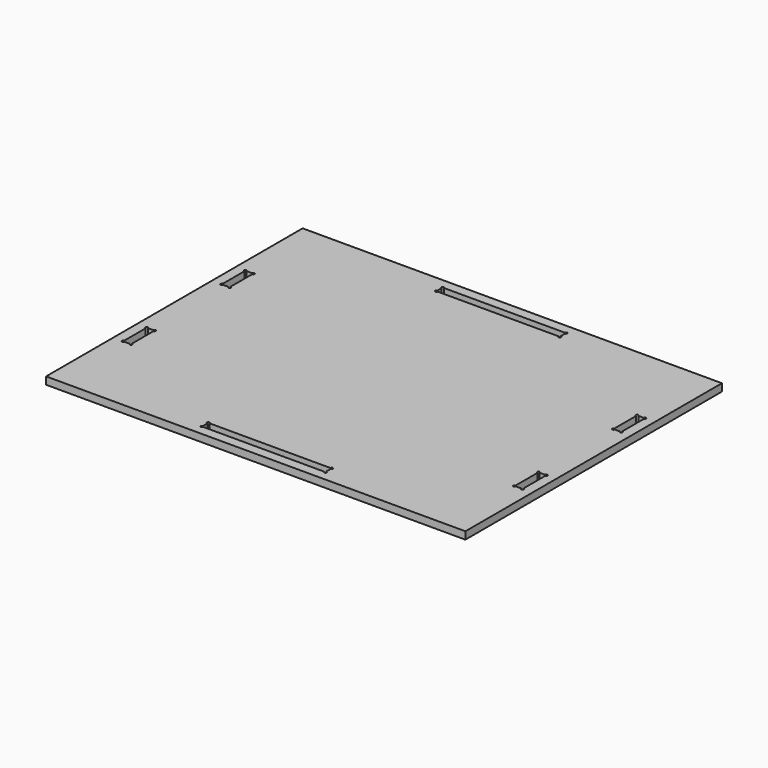
from build123d import *

# Parameters (mm, degrees)
F0_W     = 170
F0_H     = 130
F1_DEPTH = 3


with BuildPart() as f1:
    # F0 (on Top) → F1 (new body)
    with BuildSketch(Plane.XY):
        Rectangle(F0_W, F0_H)
        with BuildLine():
            ThreePointArc((-81, -19.5), (-81.353553, -18.646447), (-80.5, -19))
            Line((-80.5, -19), (-78.3, -19))
            ThreePointArc((-78.3, -19), (-77.8, -18.5), (-77.3, -19))
            ThreePointArc((-77.3, -19), (-77.446447, -19.353553), (-77.8, -19.5))
            Line((-77.8, -19.5), (-77.8, -30.5))
            ThreePointArc((-77.8, -30.5), (-77.446447, -30.646447), (-77.3, -31))
            ThreePointArc((-77.3, -31), (-77.8, -31.5), (-78.3, -31))
            Line((-78.3, -31), (-80.5, -31))
            ThreePointArc((-80.5, -31), (-81.353553, -31.353553), (-81, -30.5))
            Line((-81, -30.5), (-81, -19.5))
        make_face(mode=Mode.SUBTRACT)
        with BuildLine():
            ThreePointArc((-25, -58.3), (-25.353553, -57.446447), (-24.5, -57.8))
            Line((-24.5, -57.8), (24.5, -57.8))
            ThreePointArc((24.5, -57.8), (25, -57.3), (25.5, -57.8))
            ThreePointArc((25.5, -57.8), (25.353553, -58.153553), (25, -58.3))
            Line((25, -58.3), (25, -60.5))
            ThreePointArc((25, -60.5), (25.353553, -60.646447), (25.5, -61))
            ThreePointArc((25.5, -61), (25, -61.5), (24.5, -61))
            Line((24.5, -61), (-24.5, -61))
            ThreePointArc((-24.5, -61), (-25.353553, -61.353553), (-25, -60.5))
            Line((-25, -60.5), (-25, -58.3))
        make_face(mode=Mode.SUBTRACT)
        with BuildLine():
            ThreePointArc((77.8, -19.5), (77.446447, -18.646447), (78.3, -19))
            Line((78.3, -19), (80.5, -19))
            ThreePointArc((80.5, -19), (81, -18.5), (81.5, -19))
            ThreePointArc((81.5, -19), (81.353553, -19.353553), (81, -19.5))
            Line((81, -19.5), (81, -30.5))
            ThreePointArc((81, -30.5), (81.353553, -30.646447), (81.5, -31))
            ThreePointArc((81.5, -31), (81, -31.5), (80.5, -31))
            Line((80.5, -31), (78.3, -31))
            ThreePointArc((78.3, -31), (77.446447, -31.353553), (77.8, -30.5))
            Line((77.8, -30.5), (77.8, -19.5))
        make_face(mode=Mode.SUBTRACT)
        with BuildLine():
            ThreePointArc((-80.5, 19), (-81.353553, 18.646447), (-81, 19.5))
            Line((-81, 19.5), (-81, 30.5))
            ThreePointArc((-81, 30.5), (-81.353553, 31.353553), (-80.5, 31))
            Line((-80.5, 31), (-78.3, 31))
            ThreePointArc((-78.3, 31), (-77.8, 31.5), (-77.3, 31))
            ThreePointArc((-77.3, 31), (-77.446447, 30.646447), (-77.8, 30.5))
            Line((-77.8, 30.5), (-77.8, 19.5))
            ThreePointArc((-77.8, 19.5), (-77.446447, 19.353553), (-77.3, 19))
            ThreePointArc((-77.3, 19), (-77.8, 18.5), (-78.3, 19))
            Line((-78.3, 19), (-80.5, 19))
        make_face(mode=Mode.SUBTRACT)
        with BuildLine():
            ThreePointArc((77.8, 30.5), (77.446447, 31.353553), (78.3, 31))
            Line((78.3, 31), (80.5, 31))
            ThreePointArc((80.5, 31), (81, 31.5), (81.5, 31))
            ThreePointArc((81.5, 31), (81.353553, 30.646447), (81, 30.5))
            Line((81, 30.5), (81, 19.5))
            ThreePointArc((81, 19.5), (81.353553, 19.353553), (81.5, 19))
            ThreePointArc((81.5, 19), (81, 18.5), (80.5, 19))
            Line((80.5, 19), (78.3, 19))
            ThreePointArc((78.3, 19), (77.446447, 18.646447), (77.8, 19.5))
            Line((77.8, 19.5), (77.8, 30.5))
        make_face(mode=Mode.SUBTRACT)
        with BuildLine():
            ThreePointArc((-25, 60.5), (-25.353553, 61.353553), (-24.5, 61))
            Line((-24.5, 61), (24.5, 61))
            ThreePointArc((24.5, 61), (25, 61.5), (25.5, 61))
            ThreePointArc((25.5, 61), (25.353553, 60.646447), (25, 60.5))
            Line((25, 60.5), (25, 58.3))
            ThreePointArc((25, 58.3), (25.353553, 58.153553), (25.5, 57.8))
            ThreePointArc((25.5, 57.8), (25, 57.3), (24.5, 57.8))
            Line((24.5, 57.8), (-24.5, 57.8))
            ThreePointArc((-24.5, 57.8), (-25.353553, 57.446447), (-25, 58.3))
            Line((-25, 58.3), (-25, 60.5))
        make_face(mode=Mode.SUBTRACT)
    extrude(amount=F1_DEPTH)


solid = f1.part
